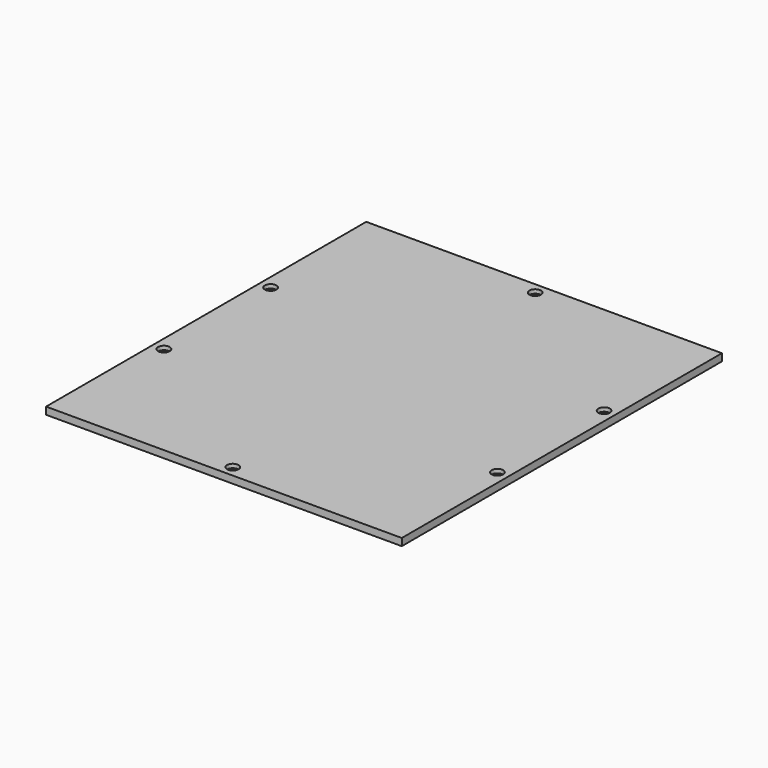
from build123d import *

# Parameters (mm, degrees)
SKETCH_W        = 320
SKETCH_H        = 360
PAD_DEPTH       = 6.5
SKETCH001_R     = 5.2
POCKET_DEPTH    = 3.5
SKETCH002_R     = 3.2
POCKET001_DEPTH = 3


with BuildPart() as part:
    # Sketch → Pad (new body)
    with BuildSketch(Plane.XY):
        with Locations((160, 180)):
            Rectangle(SKETCH_W, SKETCH_H)
    extrude(amount=PAD_DEPTH)

    # Sketch001 (on Face6 of Pad) → Pocket (cut)
    with BuildSketch(Plane.XY.offset(6.5)):
        with Locations((160, 350)):
            Circle(SKETCH001_R)
        with Locations((310, 240)):
            Circle(SKETCH001_R)
        with Locations((310, 120)):
            Circle(SKETCH001_R)
        with Locations((160, 10)):
            Circle(SKETCH001_R)
        with Locations((10, 120)):
            Circle(SKETCH001_R)
        with Locations((10, 240)):
            Circle(SKETCH001_R)
    extrude(amount=-POCKET_DEPTH, mode=Mode.SUBTRACT)

    # Sketch002 (on Face17 of Pocket) → Pocket001 (cut)
    with BuildSketch(Plane.XY.offset(3)):
        with Locations((160, 350)):
            Circle(SKETCH002_R)
        with Locations((10, 240)):
            Circle(SKETCH002_R)
        with Locations((10, 120)):
            Circle(SKETCH002_R)
        with Locations((160, 10)):
            Circle(SKETCH002_R)
        with Locations((310, 120)):
            Circle(SKETCH002_R)
        with Locations((310, 240)):
            Circle(SKETCH002_R)
    extrude(amount=-POCKET001_DEPTH, mode=Mode.SUBTRACT)


solid = part.part
